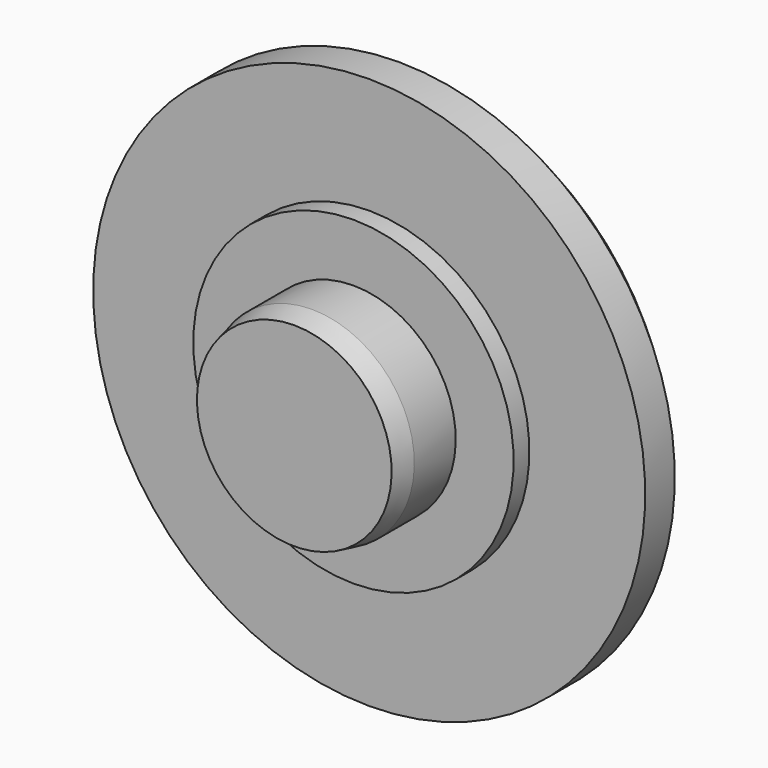
from build123d import *

# Parameters (mm, degrees)
F2_SIZE = 1


with BuildPart() as f1:
    # F0 (on Right) → F1 (revolve)
    with BuildSketch(Plane.YZ):
        Polygon((0, 0), (6.3, 0), (6.3, 11.2), (3.8, 11.2), (3.8, 6.5), (3, 6.5), (3, 4.15), (0.9, 4.15), (0, 3.95), align=None)
    revolve(axis=Axis((0, 3.15, 0), (0, -1, 0)))

    # F2
    f2_edges = [f1.edges().sort_by_distance(p)[0] for p in [
        (0, 6.3, -11.2),
    ]]
    chamfer(f2_edges, length=F2_SIZE)


solid = f1.part
